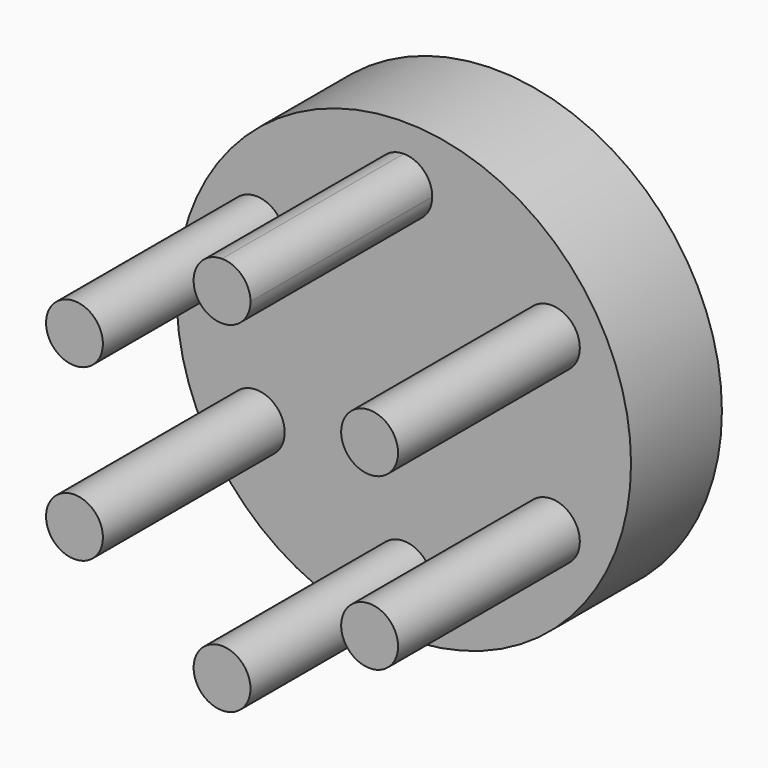
from build123d import *

# Parameters (mm, degrees)
F0_R     = 25.4
F1_DEPTH = 12.7
F2_R     = 3.179258
F3_DEPTH = 25.4


with BuildPart() as f1:
    # F0 (on Front) → F1 (new body)
    with BuildSketch(Plane.XZ):
        Circle(F0_R)
    extrude(amount=F1_DEPTH)

    # F2 (on face) → F3 (join)
    with BuildSketch(Plane.XZ.offset(12.7)):
        with Locations((-16.497784, 9.525)):
            Circle(F2_R)
        with BuildLine():
            ThreePointArc((3.179258, 19.05), (2.248075, 21.298075), (0, 22.229258))
            ThreePointArc((0, 22.229258), (-2.248075, 16.801925), (3.179258, 19.05))
        make_face()
        with Locations((16.497784, 9.525)):
            Circle(F2_R)
        with Locations((16.497784, -9.525)):
            Circle(F2_R)
        with Locations((0, -19.05)):
            Circle(F2_R)
        with Locations((-16.497784, -9.525)):
            Circle(F2_R)
    extrude(amount=F3_DEPTH)


solid = f1.part
